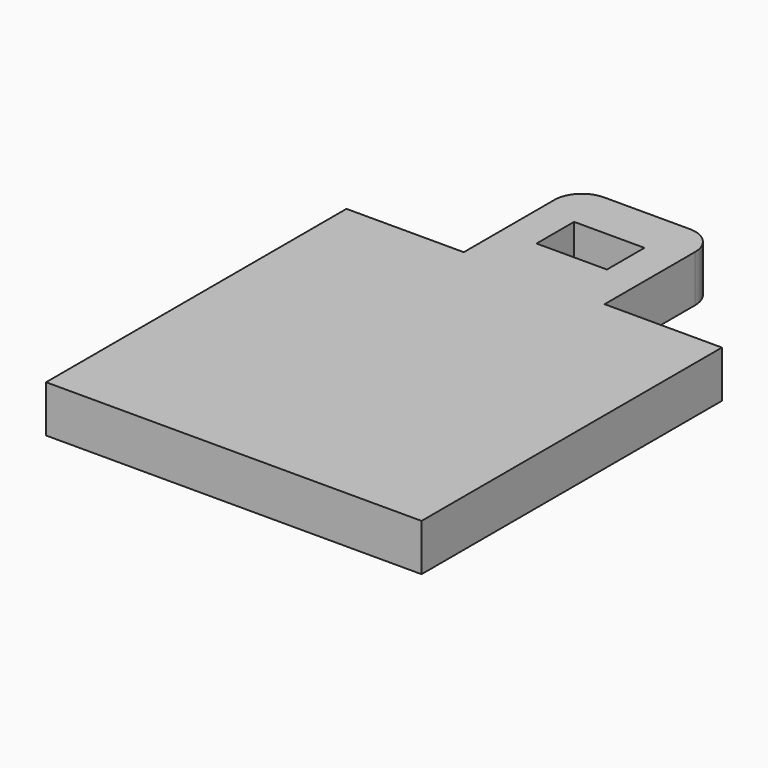
from build123d import *

# Parameters (mm, degrees)
SKETCH007_W      = 1.5
SKETCH007_H      = 1
EXTRUDE008_DEPTH = 1
BOX004_W         = 8
BOX004_H         = 8
BOX004_DEPTH     = 1


with BuildPart() as wedgeextrude:
    # Sketch007 (on Face6 of Box004) → Extrude008 (new body)
    with BuildSketch(Plane(origin=(43.86, 17.4167, 1), x_dir=(1, 0, 0), z_dir=(0, 0, 1))):
        with BuildLine():
            Line((5.5, 8), (2.5, 8))
            Line((2.5, 10.414147), (2.5, 8))
            ThreePointArc((3.085853, 11), (2.671592, 10.828408), (2.5, 10.414147))
            Line((3.085853, 11), (4.914147, 11))
            ThreePointArc((5.5, 10.414147), (5.328408, 10.828408), (4.914147, 11))
            Line((5.5, 10.414147), (5.5, 8))
        make_face()
        with Locations((4, 9.5)):
            Rectangle(SKETCH007_W, SKETCH007_H, mode=Mode.SUBTRACT)
    extrude(amount=-EXTRUDE008_DEPTH)


with BuildPart() as wedgewedge:
    # Box004 → Box004 (new body)
    with BuildSketch(Plane(origin=(43.86, 17.4167, 0), x_dir=(1, 0, 0), z_dir=(0, 0, 1))):
        with Locations((4, 4)):
            Rectangle(BOX004_W, BOX004_H)
    extrude(amount=BOX004_DEPTH)

    # Fusion001: union wedgeExtrude
    add(wedgeextrude.part)


solid = wedgewedge.part
